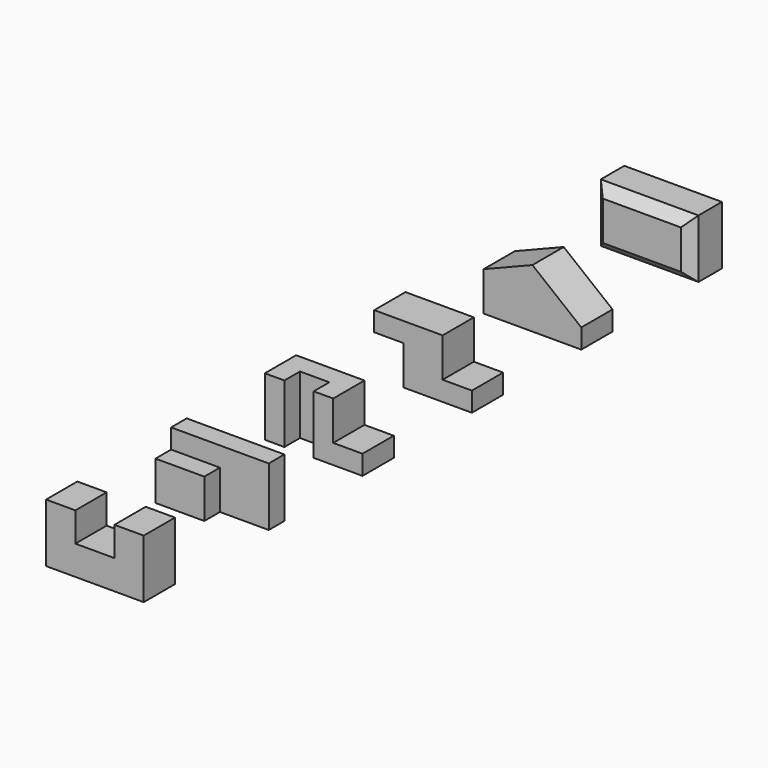
from build123d import *

# Parameters (mm, degrees)
F1_DEPTH  = 101.6
F3_DEPTH  = 254
F4_W      = 50.8
F4_H      = 101.6
F5_DEPTH  = 127
F7_DEPTH  = 152.4
F8_W      = 76.2
F8_H      = 101.6
F9_DEPTH  = 101.6
F10_W     = 101.6
F10_H     = 152.4
F11_DEPTH = 254
F12_W     = 76.2
F12_H     = 101.6
F13_DEPTH = 101.6
F14_W     = 76.2
F14_H     = 101.6
F15_DEPTH = 101.6
F16_W     = 101.6
F16_H     = 152.4
F17_DEPTH = 254
F19_DEPTH = 101.6
F21_DEPTH = 101.6
F22_W     = 101.6
F22_H     = 152.4
F23_DEPTH = 254
F24_SIZE  = 25.4


with BuildPart() as f1:
    # F0 (on Front) → F1 (new body)
    with BuildSketch(Plane.XZ):
        Polygon((0, 152.4), (0, 0), (254, 0), (254, 152.4), (177.8, 152.4), (177.8, 76.2), (76.2, 76.2), (76.2, 152.4), align=None)
    extrude(amount=-F1_DEPTH)


with BuildPart() as f3:
    # F2 (on Right) → F3 (new body)
    with BuildSketch(Plane.YZ):
        Polygon((355.6, 101.6), (355.6, 0), (457.2, 0), (457.2, 152.4), (406.4, 152.4), (406.4, 101.6), align=None)
    extrude(amount=F3_DEPTH)

    # F4 (on face) → F5 (cut)
    with BuildSketch(Plane.YZ.offset(254)):
        with Locations((381, 50.8)):
            Rectangle(F4_W, F4_H)
    extrude(amount=-F5_DEPTH, mode=Mode.SUBTRACT)


with BuildPart() as f7:
    # F6 (on Top) → F7 (new body)
    with BuildSketch(Plane.XY):
        Polygon((0, 812.8), (0, 711.2), (50.8, 711.2), (50.8, 762), (127, 762), (127, 711.2), (254, 711.2), (254, 812.8), align=None)
    extrude(amount=F7_DEPTH)

    # F8 (on face) → F9 (cut)
    with BuildSketch(Plane.XZ.offset(-711.2)):
        with Locations((215.9, 101.6)):
            Rectangle(F8_W, F8_H)
    extrude(amount=-F9_DEPTH, mode=Mode.SUBTRACT)


with BuildPart() as f11:
    # F10 (on Right) → F11 (new body)
    with BuildSketch(Plane.YZ):
        with Locations((1117.6, 76.2)):
            Rectangle(F10_W, F10_H)
    extrude(amount=F11_DEPTH)

    # F12 (on face) → F13 (cut)
    with BuildSketch(Plane.XZ.offset(-1066.8)):
        with Locations((215.9, 101.6)):
            Rectangle(F12_W, F12_H)
    extrude(amount=-F13_DEPTH, mode=Mode.SUBTRACT)

    # F14 (on face) → F15 (cut)
    with BuildSketch(Plane.XZ.offset(-1066.8)):
        with Locations((38.1, 50.8)):
            Rectangle(F14_W, F14_H)
    extrude(amount=-F15_DEPTH, mode=Mode.SUBTRACT)


with BuildPart() as f17:
    # F16 (on Right) → F17 (new body)
    with BuildSketch(Plane.YZ):
        with Locations((1473.2, 76.2)):
            Rectangle(F16_W, F16_H)
    extrude(amount=F17_DEPTH)

    # F18 (on face) → F19 (cut)
    with BuildSketch(Plane.XZ.offset(-1422.4)):
        Polygon((127, 152.4), (254, 50.8), (254, 152.4), align=None)
    extrude(amount=-F19_DEPTH, mode=Mode.SUBTRACT)

    # F20 (on face) → F21 (cut)
    with BuildSketch(Plane.XZ.offset(-1422.4)):
        Polygon((127, 152.4), (0, 152.4), (0, 101.6), align=None)
    extrude(amount=-F21_DEPTH, mode=Mode.SUBTRACT)


with BuildPart() as f23:
    # F22 (on Right) → F23 (new body)
    with BuildSketch(Plane.YZ):
        with Locations((1828.8, 76.2)):
            Rectangle(F22_W, F22_H)
    extrude(amount=F23_DEPTH)

    # F24
    f24_edges = [f23.edges().sort_by_distance(p)[0] for p in [
        (127, 1778, 152.4),
        (127, 1778, 0),
        (0, 1778, 76.2),
        (254, 1778, 76.2),
    ]]
    chamfer(f24_edges, length=F24_SIZE)


solid = Compound([f1.part, f3.part, f7.part, f11.part, f17.part, f23.part])
